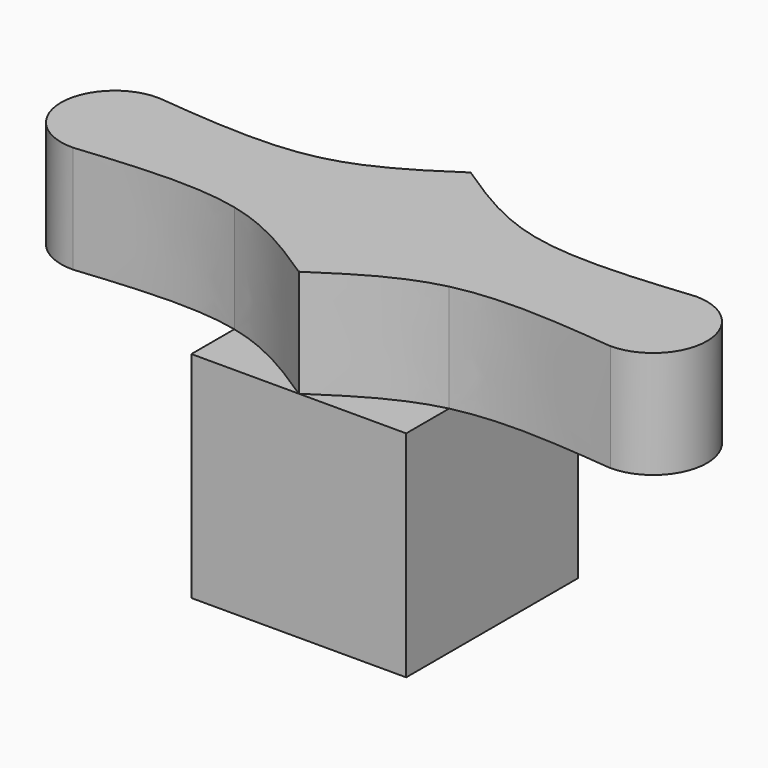
from build123d import *

# Parameters (mm, degrees)
F0_W     = 25.4
F0_H     = 38.1
F1_DEPTH = 25.4
F2_W     = 19.05
F2_H     = 12.7
F3_DEPTH = 12.7
F5_DEPTH = 12.7
F7_DEPTH = 12.7


with BuildPart() as f1:
    # F0 (on Front) → F1 (new body)
    with BuildSketch(Plane.XZ):
        with Locations((1.1045151994, 7.9051328331)):
            Rectangle(F0_W, F0_H)
    extrude(amount=F1_DEPTH)

    # F2 (on face) → F3 (join)
    with BuildSketch(Plane.XY.offset(26.9551328331)):
        with Locations((-21.1204848006, -12.7)):
            Rectangle(F2_W, F2_H)
        Polygon((13.8045151994, -6.35), (13.8045151994, -19.05), (32.860204035, -19.05), (32.8545151994, -6.35), align=None)
    extrude(amount=-F3_DEPTH)

    # F4 (on face) → F5 (cut)
    with BuildSketch(Plane.XY.offset(26.9551328331)):
        with BuildLine():
            Line((-11.5954848006, -19.05), (-11.5954848006, -25.4))
            Line((-11.5954848006, -25.4), (1.1045151994, -25.4))
            add(Edge.make_bspline(
                [(1.1045151994, -25.4), (-2.8394977605, -22.7929764945), (-6.7835107203, -20.1859529889), (-11.5954848006, -19.05)],
                knots=[0, 0, 0, 0, 0.4633292966, 0.4633292966, 0.4633292966, 0.4633292966], degree=3))
        make_face()
        with BuildLine():
            add(Edge.make_bspline(
                [(1.1045151994, -25.4), (5.0483617358, -22.7930157817), (8.9922082723, -20.1860315634), (13.8045151994, -19.05)],
                knots=[0, 0, 0, 0, 0.4632921748, 0.4632921748, 0.4632921748, 0.4632921748], degree=3))
            Line((1.1045151994, -25.4), (13.8045151994, -25.4))
            Line((13.8045151994, -25.4), (13.8045151994, -19.05))
        make_face()
        with BuildLine():
            add(Edge.make_bspline(
                [(1.1045151994, 0), (5.0485281592, -2.6070235055), (8.992541119, -5.2140470111), (13.8045151994, -6.35)],
                knots=[0, 0, 0, 0, 0.4633292966, 0.4633292966, 0.4633292966, 0.4633292966], degree=3))
            Line((13.8045151994, -6.35), (13.8045151994, 0))
            Line((13.8045151994, 0), (1.1045151994, 0))
        make_face()
        with BuildLine():
            Line((-11.5954848006, 0), (-11.5954848006, -6.35))
            add(Edge.make_bspline(
                [(1.1045151994, 0), (-2.8394977605, -2.6070235055), (-6.7835107203, -5.2140470111), (-11.5954848006, -6.35)],
                knots=[0, 0, 0, 0, 0.4633292966, 0.4633292966, 0.4633292966, 0.4633292966], degree=3))
            Line((1.1045151994, 0), (-11.5954848006, 0))
        make_face()
        with BuildLine():
            add(Edge.make_bspline(
                [(13.8045151994, -19.05), (19.3794049248, -17.7339470577), (26.1198044799, -18.3919735289), (32.860204035, -19.05)],
                knots=[0.4632921748, 0.4632921748, 0.4632921748, 0.4632921748, 1, 1, 1, 1], degree=3))
            Line((13.8045151994, -19.05), (32.860204035, -19.05))
        make_face()
        with BuildLine():
            add(Edge.make_bspline(
                [(13.8045151994, -6.35), (19.3781871724, -7.6657654699), (26.1163511859, -7.007882735), (32.8545151994, -6.35)],
                knots=[0.4633292966, 0.4633292966, 0.4633292966, 0.4633292966, 1, 1, 1, 1], degree=3))
            Line((32.8545151994, -6.35), (13.8045151994, -6.35))
        make_face()
        with BuildLine():
            Line((-11.5954848006, -6.35), (-30.6454848006, -6.35))
            add(Edge.make_bspline(
                [(-11.5954848006, -6.35), (-17.1691567737, -7.6657654699), (-23.9073207872, -7.007882735), (-30.6454848006, -6.35)],
                knots=[0.4633292966, 0.4633292966, 0.4633292966, 0.4633292966, 1, 1, 1, 1], degree=3))
        make_face()
        with BuildLine():
            Line((-30.6454848006, -19.05), (-11.5954848006, -19.05))
            add(Edge.make_bspline(
                [(-11.5954848006, -19.05), (-17.1691567737, -17.7342345301), (-23.9073207872, -18.392117265), (-30.6454848006, -19.05)],
                knots=[0.4633292966, 0.4633292966, 0.4633292966, 0.4633292966, 1, 1, 1, 1], degree=3))
        make_face()
    extrude(amount=-F5_DEPTH, mode=Mode.SUBTRACT)

    # F6 (on face) → F7 (join)
    with BuildSketch(Plane.XY.offset(26.9551328331)):
        with BuildLine():
            ThreePointArc((32.860204035, -19.05), (39.2073596172, -12.6971555822), (32.8545151994, -6.35))
            Line((32.8545151994, -6.35), (32.860204035, -19.05))
        make_face()
        with BuildLine():
            Line((-30.6454848006, -19.05), (-30.6454848006, -6.35))
            ThreePointArc((-30.6454848006, -6.35), (-37.1683022833, -12.7), (-30.6454848006, -19.05))
        make_face()
    extrude(amount=-F7_DEPTH)


solid = f1.part
